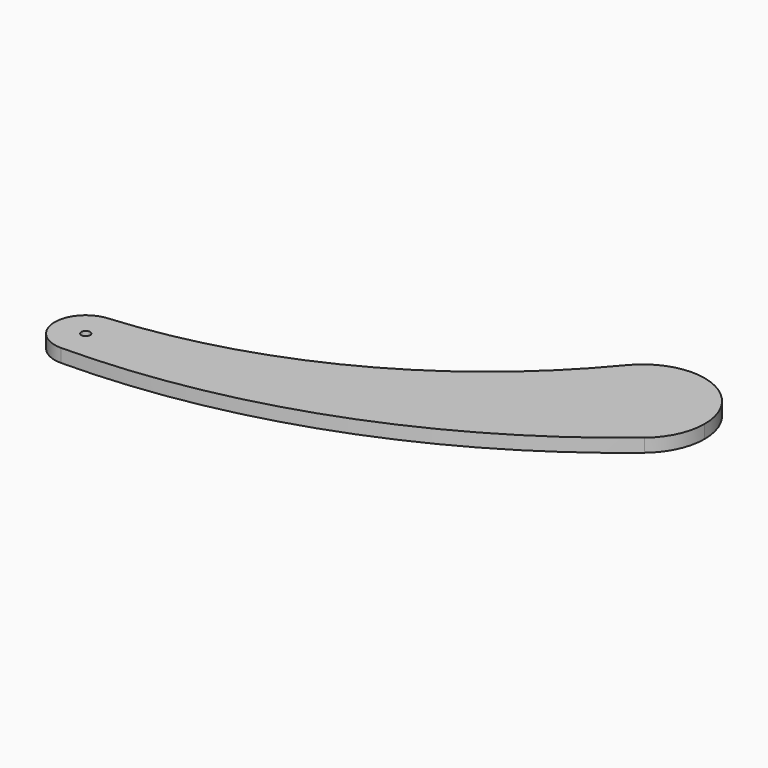
from build123d import *

# Parameters (mm, degrees)
F0_R     = 6.35
F1_DEPTH = 19.05


with BuildPart() as f1:
    # F0 (on Top) → F1 (new body)
    with BuildSketch(Plane.XY):
        with BuildLine():
            ThreePointArc((0.332687, -44.448755), (31.5483, -31.313053), (44.45, 0))
            ThreePointArc((44.45, 0), (30.100022, 32.707663), (-3.684587, 44.297024))
            ThreePointArc((-3.684587, 44.297024), (-44.404528, -2.010069), (0.332687, -44.448755))
        make_face()
        Circle(F0_R, mode=Mode.SUBTRACT)
        with BuildLine():
            ThreePointArc((678.049984, 261.737104), (619.235303, 345.391653), (520.612783, 318.357437))
            ThreePointArc((520.612783, 318.357437), (526.551405, 198.613195), (646.341094, 193.675463))
            ThreePointArc((646.341094, 193.675463), (669.73379, 224.194326), (678.049984, 261.737104))
        make_face()
        with BuildLine():
            ThreePointArc((-3.684587, 44.297024), (30.100022, 32.707663), (44.45, 0))
            ThreePointArc((44.45, 0), (31.5483, -31.313053), (0.332687, -44.448755))
            ThreePointArc((0.332687, -44.448755), (344.122424, 18.224174), (646.341094, 193.675463))
            ThreePointArc((646.341094, 193.675463), (526.551405, 198.613195), (520.612783, 318.357437))
            ThreePointArc((520.612783, 318.357437), (286.146598, 128.368607), (-3.684587, 44.297024))
        make_face()
    extrude(amount=F1_DEPTH)


solid = f1.part
